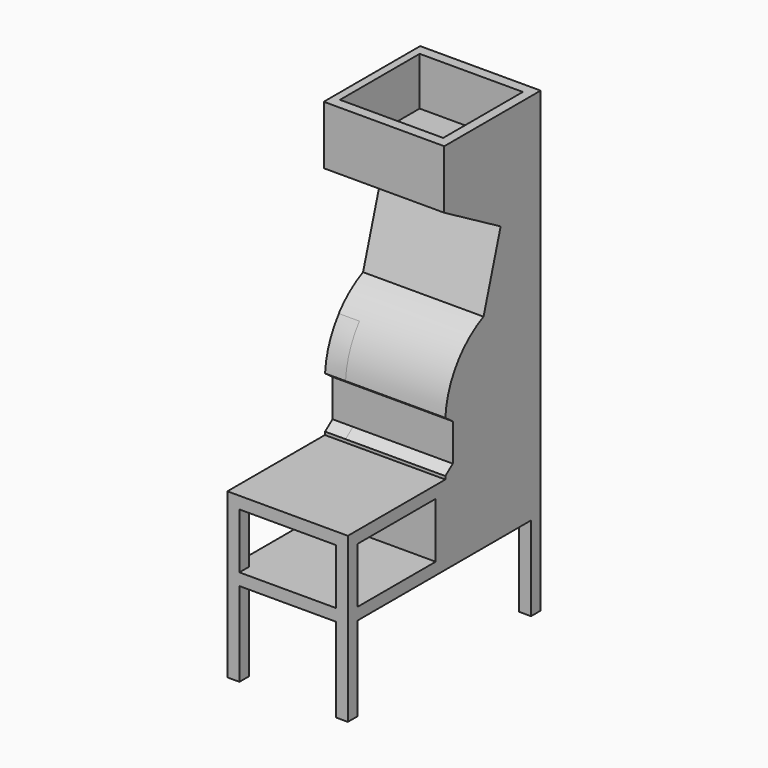
from build123d import *

# Parameters (mm, degrees)
F0_W      = 500
F0_H      = 1000
F1_DEPTH  = 1900
F2_W      = 900
F2_H      = 350
F3_DEPTH  = 500
F4_W      = 400
F4_H      = 350
F5_DEPTH  = 1000
F6_W      = 405.736053
F6_H      = 230
F7_DEPTH  = 500
F8_DEPTH  = 500
F9_W      = 428.243608
F9_H      = 413.254976
F10_DEPTH = 200
F11_W     = 85.769325
F11_H     = 401.872158
F12_DEPTH = 500
F13_W     = 400
F13_H     = 230
F14_DEPTH = 50
F15_DEPTH = 85


with BuildPart() as f1:
    # F0 (on Top) → F1 (new body)
    with BuildSketch(Plane.XY):
        with Locations((-250, 500)):
            Rectangle(F0_W, F0_H)
    extrude(amount=F1_DEPTH)

    # F2 (on face) → F3 (cut)
    with BuildSketch(Plane.YZ):
        with Locations((500, 175)):
            Rectangle(F2_W, F2_H)
    extrude(amount=-F3_DEPTH, mode=Mode.SUBTRACT)

    # F4 (on face) → F5 (cut)
    with BuildSketch(Plane.XZ):
        with Locations((-250, 175)):
            Rectangle(F4_W, F4_H)
    extrude(amount=-F5_DEPTH, mode=Mode.SUBTRACT)

    # F6 (on face) → F7 (cut)
    with BuildSketch(Plane.YZ):
        with Locations((252.868026, 515)):
            Rectangle(F6_W, F6_H)
    extrude(amount=-F7_DEPTH, mode=Mode.SUBTRACT)

    # F6 (on face) → F8 (cut)
    with BuildSketch(Plane.YZ):
        with BuildLine():
            Line((500, 1657.026792), (500, 1900))
            Line((500, 1900), (0, 1900))
            Line((0, 1900), (0, 680))
            Line((0, 680), (50, 680))
            Line((50, 680), (455.736053, 680))
            Line((455.736053, 680), (505.736053, 680))
            Line((505.736053, 680), (505.736053, 692.793548))
            Line((505.736053, 692.793548), (544.31802, 722.311735))
            Line((544.31802, 722.311735), (544.31802, 876.871645))
            Line((544.31802, 876.871645), (505.736053, 905.245364))
            ThreePointArc((505.736053, 905.245364), (564.785088, 1077.27253), (703.88782, 1194.450021))
            Line((703.88782, 1194.450021), (792.619646, 1488.100433))
            Line((792.619646, 1488.100433), (500, 1657.026792))
        make_face()
    extrude(amount=-F8_DEPTH, mode=Mode.SUBTRACT)

    # F9 (on face) → F10 (cut)
    with BuildSketch(Plane.XY.offset(1900)):
        with Locations((-253.211826, 750)):
            Rectangle(F9_W, F9_H)
    extrude(amount=-F10_DEPTH, mode=Mode.SUBTRACT)

    # F11 (on face) → F12 (cut)
    with BuildSketch(Plane(origin=(0, 1000, 0), x_dir=(-1, 0, 0), z_dir=(0, 1, 0))):
        with Locations((457.115338, 893.803358)):
            Rectangle(F11_W, F11_H)
    extrude(amount=-F12_DEPTH, mode=Mode.SUBTRACT)

    # F13 (on face) → F14 (cut)
    with BuildSketch(Plane.XZ):
        with Locations((-250, 515)):
            Rectangle(F13_W, F13_H)
    extrude(amount=-F14_DEPTH, mode=Mode.SUBTRACT)

    # F12_face (on face) → F15 (join)
    with BuildSketch(Plane(origin=(-414.230675, 767.243571, 893.578105), x_dir=(0, -1, 0), z_dir=(-1, 0, 0))):
        with BuildLine():
            Line((-232.756429, 201.161332), (-232.756429, -200.710826))
            Line((-232.756429, -200.710826), (261.411147, -200.710826))
            Line((261.411147, -200.710826), (222.925551, -171.26637))
            Line((222.925551, -171.26637), (222.925551, -16.70646))
            Line((222.925551, -16.70646), (261.507518, 11.667259))
            ThreePointArc((261.507518, 11.667259), (239.989786, 111.877202), (189.656997, 201.161332))
            Line((189.656997, 201.161332), (-232.756429, 201.161332))
        make_face()
    extrude(amount=F15_DEPTH)


solid = f1.part
